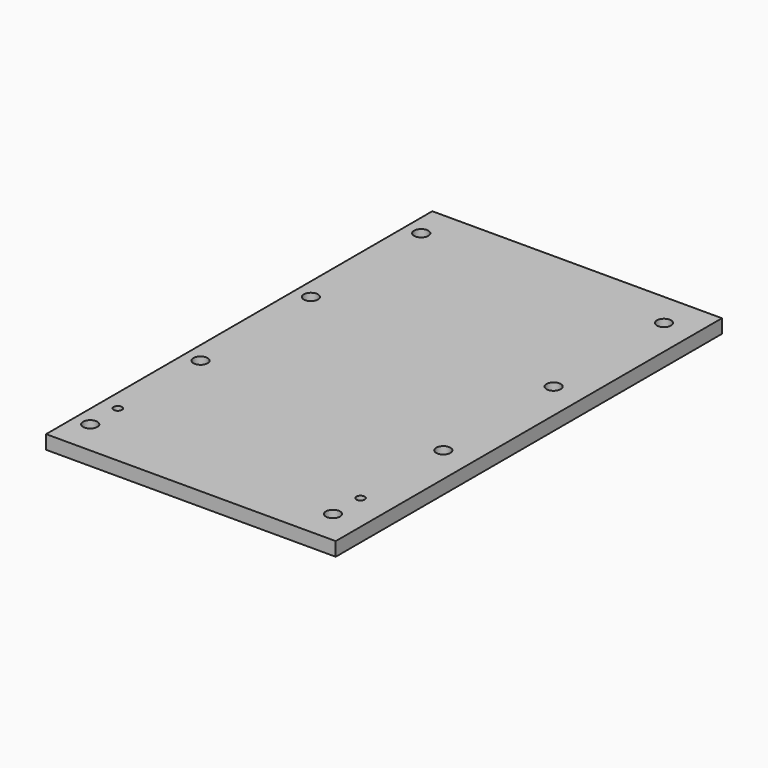
from build123d import *

# Parameters (mm, degrees)
F0_W     = 210
F0_H     = 350
F0_R     = 5.1594
F0_R_2   = 3
F1_DEPTH = 10


with BuildPart() as f1:
    # F0 (on Top) → F1 (new body)
    with BuildSketch(Plane.XY):
        with Locations((-5.235029, 11.618854)):
            Rectangle(F0_W, F0_H)
        with Locations((-98.235029, -138.381146)):
            Circle(F0_R, mode=Mode.SUBTRACT)
        with Locations((-98.235029, -113.381146)):
            Circle(F0_R_2, mode=Mode.SUBTRACT)
        with Locations((-98.235029, -38.381146)):
            Circle(F0_R, mode=Mode.SUBTRACT)
        with Locations((77.764971, -138.381146)):
            Circle(F0_R, mode=Mode.SUBTRACT)
        with Locations((77.764971, -113.381146)):
            Circle(F0_R_2, mode=Mode.SUBTRACT)
        with Locations((77.764971, -38.381146)):
            Circle(F0_R, mode=Mode.SUBTRACT)
        with Locations((-98.235029, 61.618854)):
            Circle(F0_R, mode=Mode.SUBTRACT)
        with Locations((-98.235029, 161.618854)):
            Circle(F0_R, mode=Mode.SUBTRACT)
        with Locations((77.764971, 61.618854)):
            Circle(F0_R, mode=Mode.SUBTRACT)
        with Locations((77.764971, 161.618854)):
            Circle(F0_R, mode=Mode.SUBTRACT)
    extrude(amount=F1_DEPTH)


solid = f1.part
